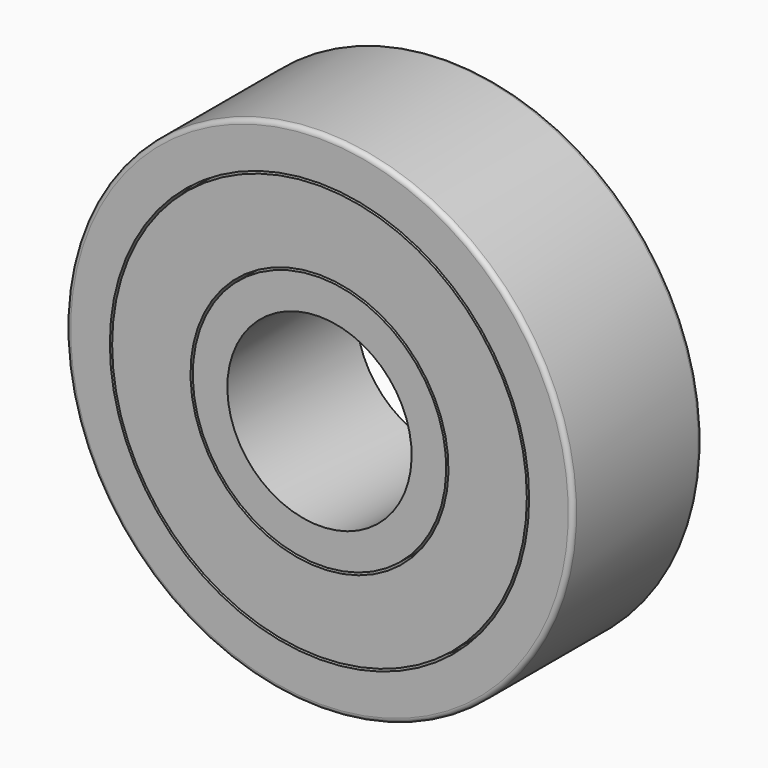
from build123d import *

# Parameters (mm, degrees)
SKETCH033_R             = 11
SKETCH033_R_2           = 4
PAD012_DEPTH            = 7
SKETCH035_R             = 5.6
SKETCH035_R_2           = 5.5
POCKET016_DEPTH         = 1.5
SKETCH034_R             = 5.6
SKETCH034_R_2           = 5.5
POCKET019_DEPTH         = 3
SKETCH032_R             = 9.1
SKETCH032_R_2           = 9
POCKET018_DEPTH         = 1
SKETCH031_R             = 9.1
SKETCH031_R_2           = 9
POCKET017_DEPTH         = 1
FILLET002_R             = 0.2
BODY008_PITCH_ANGLE     = -90
BODY008_PLACEMENT_ANGLE = 90


with BuildPart() as part:
    # Sketch033 → Pad012 (new body)
    with BuildSketch(Plane.XY):
        Circle(SKETCH033_R)
        Circle(SKETCH033_R_2, mode=Mode.SUBTRACT)
    extrude(amount=PAD012_DEPTH)

    # Sketch035 (on Face4 of Pad012) → Pocket016 (cut, symmetric)
    with BuildSketch(Plane.XY.offset(7)):
        Circle(SKETCH035_R)
        Circle(SKETCH035_R_2, mode=Mode.SUBTRACT)
    extrude(amount=POCKET016_DEPTH, both=True, mode=Mode.SUBTRACT)

    # Sketch034 (on Face2 of Pocket016) → Pocket019 (cut)
    with BuildSketch(Plane(origin=(0, 0, 0), x_dir=(1, 0, 0), z_dir=(0, 0, -1))):
        Circle(SKETCH034_R)
        Circle(SKETCH034_R_2, mode=Mode.SUBTRACT)
    extrude(amount=-POCKET019_DEPTH, mode=Mode.SUBTRACT)

    # Sketch032 (on Face3 of Pocket019) → Pocket018 (cut)
    with BuildSketch(Plane.XY.offset(7)):
        Circle(SKETCH032_R)
        Circle(SKETCH032_R_2, mode=Mode.SUBTRACT)
    extrude(amount=-POCKET018_DEPTH, mode=Mode.SUBTRACT)

    # Sketch031 (on Face2 of Pocket018) → Pocket017 (cut)
    with BuildSketch(Plane(origin=(0, 0, 0), x_dir=(1, 0, 0), z_dir=(0, 0, -1))):
        Circle(SKETCH031_R)
        Circle(SKETCH031_R_2, mode=Mode.SUBTRACT)
    extrude(amount=-POCKET017_DEPTH, mode=Mode.SUBTRACT)

    # Fillet002
    fillet002_edges = [part.edges().sort_by_distance(p)[0] for p in [
        (-11, 0, 0),
        (-11, 0, 7),
    ]]
    fillet(fillet002_edges, radius=FILLET002_R)


with BuildPart() as part_1:
    # Body008 pitch: moved
    add(part.part.rotate(Axis((0, 0, 0), (0, 1, 0)), BODY008_PITCH_ANGLE))


with BuildPart() as part_2:
    # Body008 placement: moved
    add(part_1.part.moved(Location((0, 94.2, 58.6))).rotate(Axis((0, 94.2, 58.6), (0, 0, 1)), BODY008_PLACEMENT_ANGLE))


solid = part_2.part
